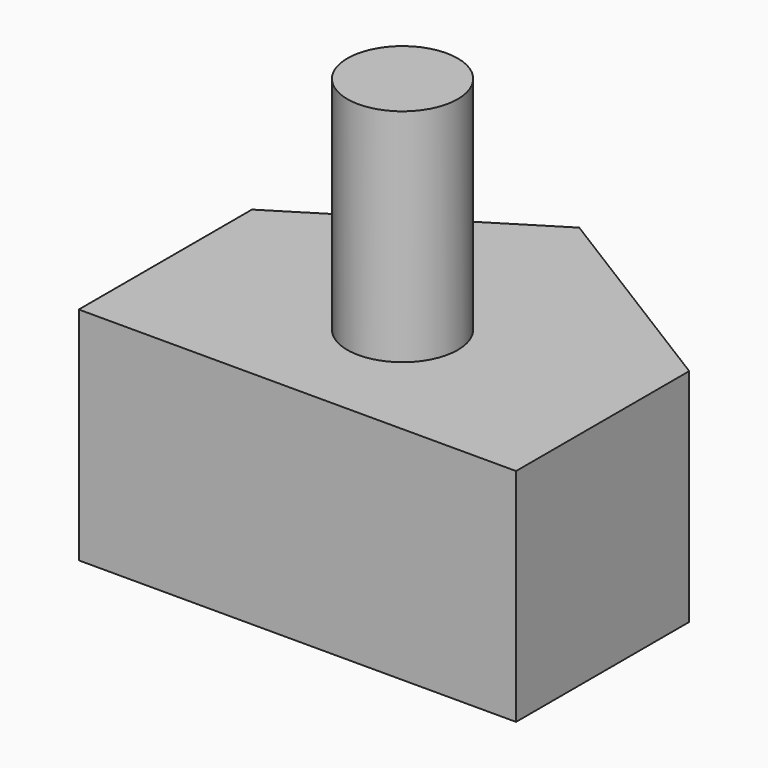
from build123d import *

# Parameters (mm, degrees)
F1_DEPTH = 5.08
F2_R     = 1.27
F3_DEPTH = 5.08


with BuildPart() as f1:
    # F0 (on Top) → F1 (new body)
    with BuildSketch(Plane.XY):
        Polygon((0, 4.9784), (0, 0), (10.0584, 0), (10.0584, 4.9784), (5.0292, 8.1026), align=None)
    extrude(amount=F1_DEPTH)

    # F2 (on face) → F3 (join)
    with BuildSketch(Plane.XY.offset(5.08)):
        with Locations((5.0292, 3.0226)):
            Circle(F2_R)
    extrude(amount=F3_DEPTH)


solid = f1.part
